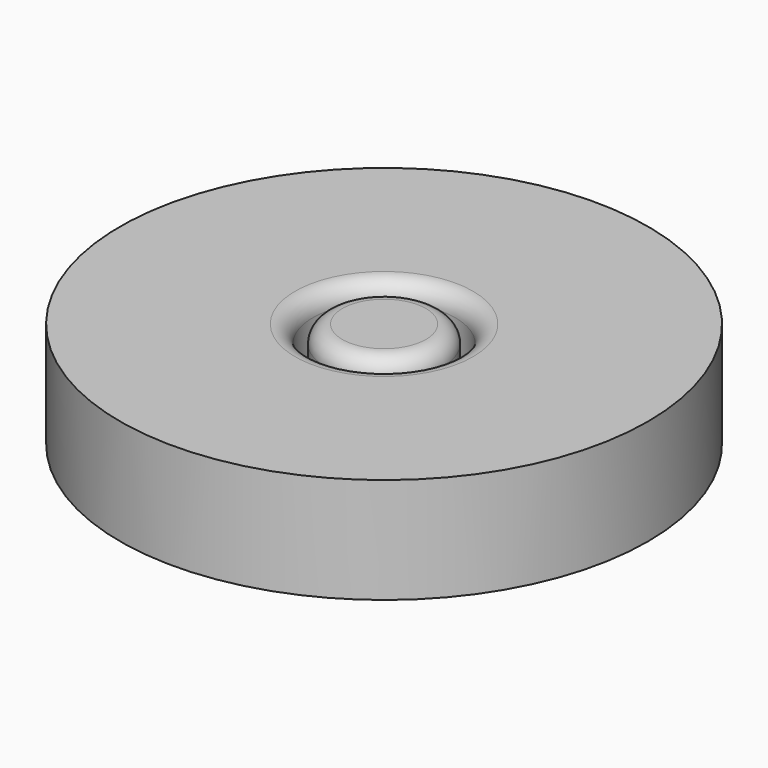
from build123d import *

# Parameters (mm, degrees)
F0_R     = 7.5
F0_R_2   = 2.0257797654
F0_R_3   = 1.6893187084
F1_DEPTH = 3
F2_R     = 2.0257797654
F2_R_2   = 1.6893187084
F3_DEPTH = 1.5
F4_R     = 0.5


with BuildPart() as f1:
    # F0 (on Top) → F1 (new body)
    with BuildSketch(Plane.XY):
        Circle(F0_R)
        Circle(F0_R_2, mode=Mode.SUBTRACT)
        Circle(F0_R_2)
        Circle(F0_R_3, mode=Mode.SUBTRACT)
        Circle(F0_R_3)
    extrude(amount=F1_DEPTH)

    # F2 (on face) → F3 (cut)
    with BuildSketch(Plane.XY.offset(3)):
        Circle(F2_R)
        Circle(F2_R_2, mode=Mode.SUBTRACT)
    extrude(amount=-F3_DEPTH, mode=Mode.SUBTRACT)

    # F4
    f4_edges = [f1.edges().sort_by_distance(p)[0] for p in [
        (-1.689319, 0, 3),
        (-2.02578, 0, 3),
    ]]
    fillet(f4_edges, radius=F4_R)


solid = f1.part
